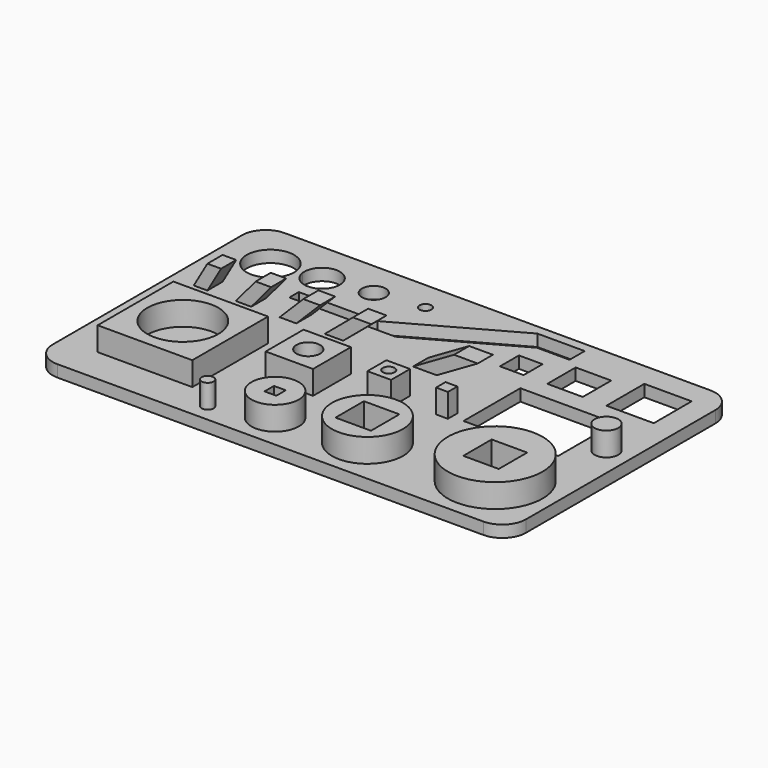
from build123d import *

# Parameters (mm, degrees)
F0_W      = 127
F0_H      = 76.2
F1_DEPTH  = 3.175
F2_R      = 1.5875
F2_W      = 12.7
F2_H      = 12.7
F2_W_2    = 9.525
F2_H_2    = 9.525
F2_W_3    = 6.35
F2_H_3    = 6.35
F2_W_4    = 3.175
F2_H_4    = 3.175
F3_DEPTH  = 3.175
F4_W      = 25.4
F4_H      = 25.4
F4_W_2    = 12.7
F4_H_2    = 12.7
F4_W_3    = 6.35
F4_H_3    = 6.35
F4_W_4    = 3.175
F4_H_4    = 3.175
F5_DEPTH  = 6.35
F6_R      = 9.525
F6_R_2    = 3.175
F6_R_3    = 1.5875
F7_DEPTH  = 6.35
F8_R      = 12.7
F8_R_2    = 6.35
F8_R_3    = 9.525
F8_R_4    = 3.175
F8_R_5    = 1.5875
F9_DEPTH  = 6.35
F10_W     = 3.175
F10_H     = 3.175
F11_DEPTH = 6.35
F12_W     = 76.2
F12_H     = 5.08
F13_DEPTH = 6.35
F15_DEPTH = 5.08
F16_R     = 6.35
F18_DEPTH = 3.175
F19_W     = 25.4
F19_H     = 19.05
F20_DEPTH = 3.175


with BuildPart() as f1:
    # F0 (on Top) → F1 (new body)
    with BuildSketch(Plane.XY):
        Rectangle(F0_W, F0_H)
    extrude(amount=F1_DEPTH)

    # F2 (on face) → F3 (cut, through all)
    with BuildSketch(Plane.XY.offset(3.175)):
        with BuildLine():
            ThreePointArc((-44.499805, 26.19375), (-57.137537, 25.002345), (-44.45, 25.4))
            ThreePointArc((-44.45, 25.4), (-44.462463, 25.797655), (-44.499805, 26.19375))
        make_face()
        with BuildLine():
            ThreePointArc((-22.449121, 28.971875), (-25.996094, 31.725098), (-28.749316, 28.178125))
            Line((-28.749316, 28.178125), (-22.449121, 28.971875))
        make_face()
        with BuildLine():
            Line((-22.449121, 28.971875), (-28.749316, 28.178125))
            ThreePointArc((-28.749316, 28.178125), (-25.400391, 25.406232), (-22.424219, 28.575))
            ThreePointArc((-22.424219, 28.575), (-22.43045, 28.773828), (-22.449121, 28.971875))
        make_face()
        with BuildLine():
            ThreePointArc((-33.474463, 27.582813), (-38.794922, 31.712646), (-42.924756, 26.392188))
            Line((-42.924756, 26.392188), (-33.474463, 27.582813))
        make_face()
        with BuildLine():
            Line((-33.474463, 27.582813), (-42.924756, 26.392188))
            ThreePointArc((-42.924756, 26.392188), (-37.901368, 22.234348), (-33.437109, 26.9875))
            ThreePointArc((-33.437109, 26.9875), (-33.446457, 27.285742), (-33.474463, 27.582813))
        make_face()
        with Locations((-12.998828, 30.1625)):
            Circle(F2_R)
        with Locations((50.8, 25.4)):
            Rectangle(F2_W, F2_H)
        with Locations((33.3375, 23.8125)):
            Rectangle(F2_W_2, F2_H_2)
        with Locations((19.05, 22.225)):
            Rectangle(F2_W_3, F2_H_3)
        with Locations((7.9375, 20.6375)):
            Rectangle(F2_W_4, F2_H_4)
    extrude(amount=-F3_DEPTH, mode=Mode.SUBTRACT)

    # F4 (on face) → F5 (join)
    with BuildSketch(Plane.XY.offset(3.175)):
        with Locations((-41.275, -15.875)):
            Rectangle(F4_W, F4_H)
        with Locations((-12.7, -9.525)):
            Rectangle(F4_W_2, F4_H_2)
        with Locations((6.35, -6.35)):
            Rectangle(F4_W_3, F4_H_3)
        with Locations((20.6375, -4.7625)):
            Rectangle(F4_W_4, F4_H_4)
    extrude(amount=F5_DEPTH)

    # F6 (on face) → F7 (cut)
    with BuildSketch(Plane.XY.offset(9.525)):
        with Locations((-41.275, -15.875)):
            Circle(F6_R)
        with Locations((-12.7, -9.525)):
            Circle(F6_R_2)
        with Locations((6.35, -6.35)):
            Circle(F6_R_3)
    extrude(amount=-F7_DEPTH, mode=Mode.SUBTRACT)

    # F8 (on face) → F9 (join)
    with BuildSketch(Plane.XY.offset(3.175)):
        with Locations((47.625, -22.225)):
            Circle(F8_R)
        with Locations((-6.35, -28.575)):
            Circle(F8_R_2)
        with Locations((15.875, -25.4)):
            Circle(F8_R_3)
        with Locations((57.15, 3.175)):
            Circle(F8_R_4)
        with Locations((-20.6375, -33.3375)):
            Circle(F8_R_5)
    extrude(amount=F9_DEPTH)

    # F10 (on face) → F11 (cut)
    with BuildSketch(Plane.XY.offset(9.525)):
        Polygon((52.3875, -17.4625), (42.8625, -17.4625), (42.8625, -26.9875), align=None)
        Polygon((52.3875, -26.9875), (52.3875, -17.4625), (42.8625, -26.9875), align=None)
        Polygon((20.6375, -20.6375), (11.1125, -20.6375), (11.1125, -30.1625), align=None)
        Polygon((20.6375, -30.1625), (20.6375, -20.6375), (11.1125, -30.1625), align=None)
        with Locations((-6.35, -28.575)):
            Rectangle(F10_W, F10_H)
    extrude(amount=-F11_DEPTH, mode=Mode.SUBTRACT)

    # F12 (on face) → F13 (join)
    with BuildSketch(Plane.XY.offset(3.175)):
        with Locations((-19.05, 10.16)):
            Rectangle(F12_W, F12_H)
    extrude(amount=F13_DEPTH)

    # F14 (on face) → F15 (cut, through all)
    with BuildSketch(Plane(origin=(0, 12.7, 0), x_dir=(-1, 0, 0), z_dir=(0, 1, 0))):
        Polygon((53.483826, 9.525), (57.15, 3.175), (57.15, 9.525), align=None)
        Polygon((45.863826, 3.175), (53.483826, 3.175), (49.817652, 9.525), (40.535543, 9.525), align=None)
        Polygon((34.099158, 3.175), (41.719158, 3.175), (36.390875, 9.525), (27.749158, 9.525), align=None)
        Polygon((14.421394, 9.525), (21.98903, 3.175), (29.60903, 3.175), (23.25903, 9.525), align=None)
        Polygon((-1.701477, 3.175), (17.049606, 3.175), (9.481971, 9.525), (-12.7, 9.525), align=None)
        Polygon((-19.05, 3.175), (-8.051477, 3.175), (-19.05, 9.525), align=None)
    extrude(amount=-F15_DEPTH, mode=Mode.SUBTRACT)

    # F16
    f16_edges = [f1.edges().sort_by_distance(p)[0] for p in [
        (63.5, -38.1, 1.5875),
        (-63.5, -38.1, 1.5875),
        (-63.5, 38.1, 1.5875),
        (63.5, 38.1, 1.5875),
    ]]
    fillet(f16_edges, radius=F16_R)

    # F17 (on face) → F18 (cut, through all)
    with BuildSketch(Plane.XY.offset(3.175)):
        Polygon((-9.660837, 15.875), (16.63156, 30.48), (25.4, 30.48), (25.4, 35.56), (12.7, 35.56), (-17.021839, 19.05), (-38.1, 19.05), (-38.1, 15.875), align=None)
    extrude(amount=-F18_DEPTH, mode=Mode.SUBTRACT)

    # F19 (on face) → F20 (cut, through all)
    with BuildSketch(Plane.XY.offset(3.175)):
        with Locations((38.1, 4.445)):
            Rectangle(F19_W, F19_H)
    extrude(amount=-F20_DEPTH, mode=Mode.SUBTRACT)


solid = f1.part
